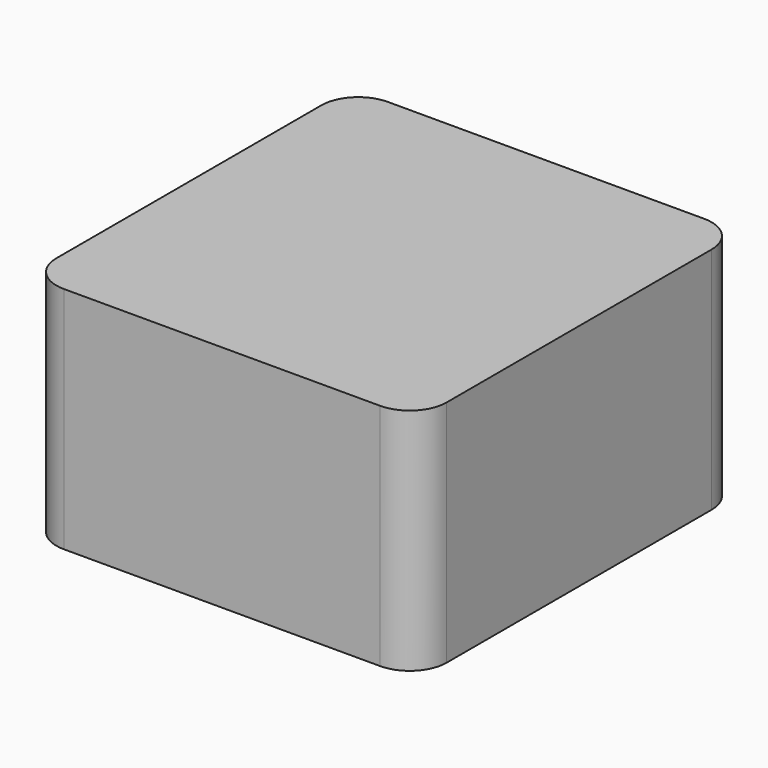
from build123d import *

# Parameters (mm, degrees)
F0_W     = 5.28
F0_H     = 5.48
F1_DEPTH = 3.1
F2_R     = 0.5
F3_W     = 1
F3_H     = 4.2
F4_DEPTH = 0.12


with BuildPart() as f1:
    # F0 (on Top) → F1 (new body)
    with BuildSketch(Plane.XY):
        Rectangle(F0_W, F0_H)
    extrude(amount=F1_DEPTH)

    # F2
    f2_edges = [f1.edges().sort_by_distance(p)[0] for p in [
        (-2.64, -2.74, 1.55),
        (2.64, -2.74, 1.55),
        (2.64, 2.74, 1.55),
        (-2.64, 2.74, 1.55),
    ]]
    fillet(f2_edges, radius=F2_R)


with BuildPart() as f4:
    # F3 (on face) → F4 (new body)
    with BuildSketch(Plane(origin=(0, 0, 0), x_dir=(1, 0, 0), z_dir=(0, 0, -1))):
        with Locations((1.65, 0)):
            Rectangle(F3_W, F3_H)
        with Locations((-1.65, 0)):
            Rectangle(F3_W, F3_H)
    extrude(amount=F4_DEPTH)


solid = Compound([f1.part, f4.part])
